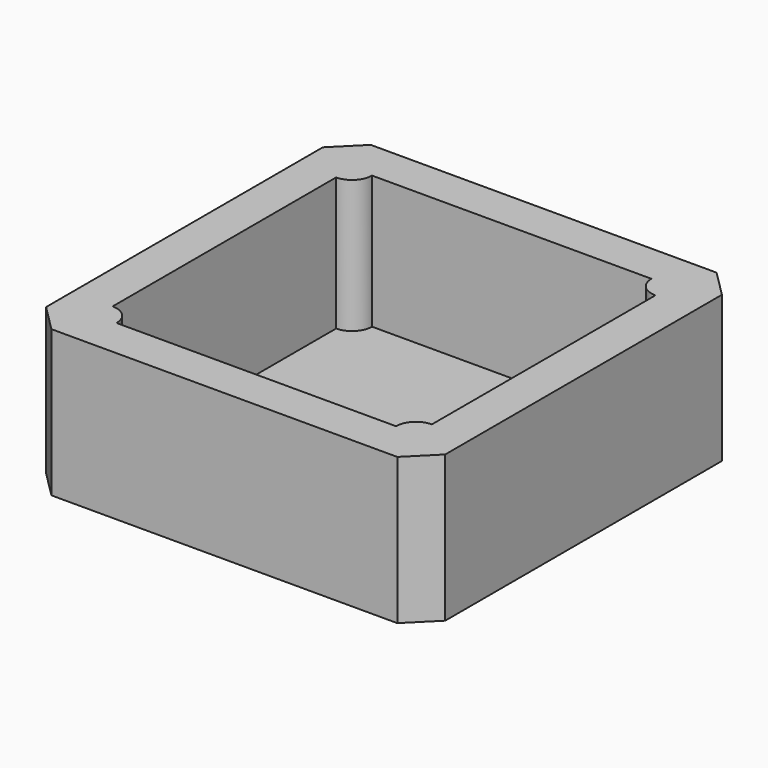
from build123d import *

# Parameters (mm, degrees)
F0_W     = 30
F0_H     = 30
F1_DEPTH = 1
F2_W     = 30
F2_H     = 30
F3_DEPTH = 10
F4_SIZE  = 2


with BuildPart() as f1:
    # F0 (on Top) → F1 (new body)
    with BuildSketch(Plane.XY):
        with Locations((15, 15)):
            Rectangle(F0_W, F0_H)
    extrude(amount=F1_DEPTH)

    # F2 (on face) → F3 (join)
    with BuildSketch(Plane.XY.offset(1)):
        with Locations((15, 15)):
            Rectangle(F2_W, F2_H)
        with BuildLine():
            Line((3, 4.5), (3, 25.5))
            ThreePointArc((3, 25.5), (4.06066, 25.93934), (4.5, 27))
            Line((4.5, 27), (25.5, 27))
            ThreePointArc((25.5, 27), (25.93934, 25.93934), (27, 25.5))
            Line((27, 25.5), (27, 4.5))
            ThreePointArc((27, 4.5), (25.93934, 4.06066), (25.5, 3))
            Line((25.5, 3), (4.5, 3))
            ThreePointArc((4.5, 3), (4.06066, 4.06066), (3, 4.5))
        make_face(mode=Mode.SUBTRACT)
    extrude(amount=F3_DEPTH)

    # F4
    f4_edges = [f1.edges().sort_by_distance(p)[0] for p in [
        (30, 30, 5.5),
        (30, 0, 5.5),
        (0, 0, 5.5),
        (0, 30, 5.5),
    ]]
    chamfer(f4_edges, length=F4_SIZE)


solid = f1.part
